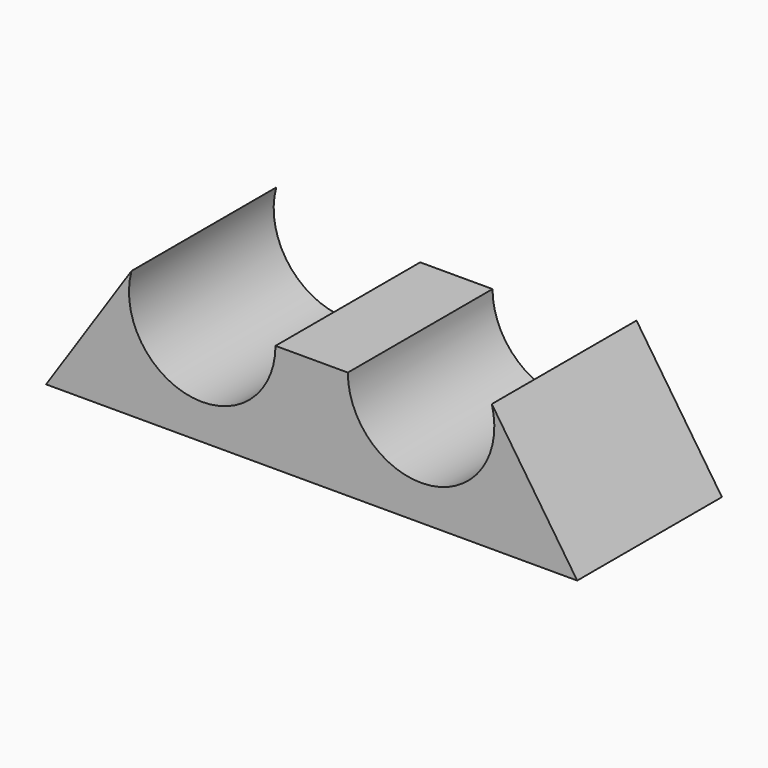
from build123d import *

# Parameters (mm, degrees)
F1_DEPTH = 10


with BuildPart() as f1:
    # F0 (on Front) → F1 (new body)
    with BuildSketch(Plane.XZ):
        with BuildLine():
            ThreePointArc((-19.814088, 0), (-24.397086, -4.014774), (-27.773799, 1.056724))
            Line((-27.773799, 1.056724), (-32.496632, -6))
            Line((-32.496632, -6), (-17.814088, -6))
            Line((-17.814088, -6), (-17.814088, 0))
            Line((-17.814088, 0), (-19.814088, 0))
        make_face()
        with BuildLine():
            Line((-15.814088, 0), (-17.814088, 0))
            Line((-17.814088, 0), (-17.814088, -6))
            Line((-17.814088, -6), (-3.131545, -6))
            Line((-3.131545, -6), (-7.854378, 1.056724))
            ThreePointArc((-7.854378, 1.056724), (-11.231091, -4.014774), (-15.814088, 0))
        make_face()
    extrude(amount=F1_DEPTH)


solid = f1.part
